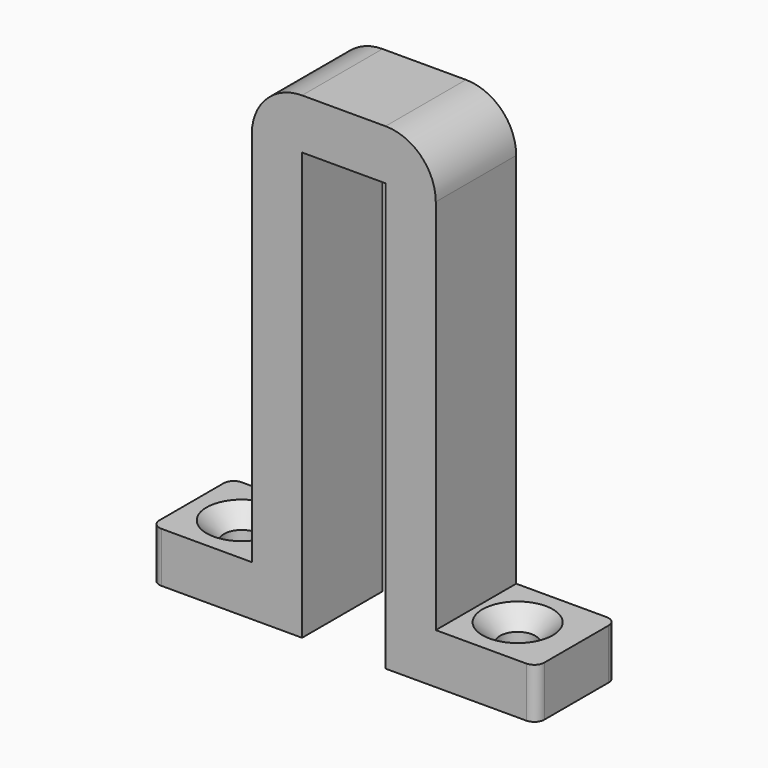
from build123d import *

# Parameters (mm, degrees)
F1_DEPTH       = 5
F3_D           = 3.5
F3_CSINK_D     = 7
F3_CSINK_ANGLE = 90
F4_D           = 3.5
F4_CSINK_D     = 7
F4_CSINK_ANGLE = 90
F5_R           = 5
F6_R           = 1


with BuildPart() as f1:
    # F0 (on Front) → F1 (new body, symmetric)
    with BuildSketch(Plane.XZ):
        Polygon((-4.15, 12.126713), (0, 12.126713), (4.15, 12.126713), (4.15, -30.373287), (19.15, -30.373287), (19.15, -25.373287), (9.15, -25.373287), (9.15, 17.126713), (0, 17.126713), (-9.15, 17.126713), (-9.15, -25.373287), (-19.15, -25.373287), (-19.15, -30.373287), (-4.15, -30.373287), align=None)
    extrude(amount=F1_DEPTH, both=True)

    # F3 (through all)
    with Locations(Plane.XY.offset(-25.373287)):
        with Locations((13.293465, 0)):
            CounterSinkHole(F3_D / 2, F3_CSINK_D / 2, counter_sink_angle=F3_CSINK_ANGLE)

    # F4 (through all)
    with Locations(Plane.XY.offset(-25.373287)):
        with Locations((-14.15, 0)):
            CounterSinkHole(F4_D / 2, F4_CSINK_D / 2, counter_sink_angle=F4_CSINK_ANGLE)

    # F5
    f5_edges = [f1.edges().sort_by_distance(p)[0] for p in [
        (-9.15, 0, 17.126713),
        (9.15, 0, 17.126713),
    ]]
    fillet(f5_edges, radius=F5_R)

    # F6
    f6_edges = [f1.edges().sort_by_distance(p)[0] for p in [
        (19.15, 5, -27.873287),
        (19.15, -5, -27.873287),
        (-19.15, -5, -27.873287),
        (-19.15, 5, -27.873287),
    ]]
    fillet(f6_edges, radius=F6_R)


solid = f1.part
